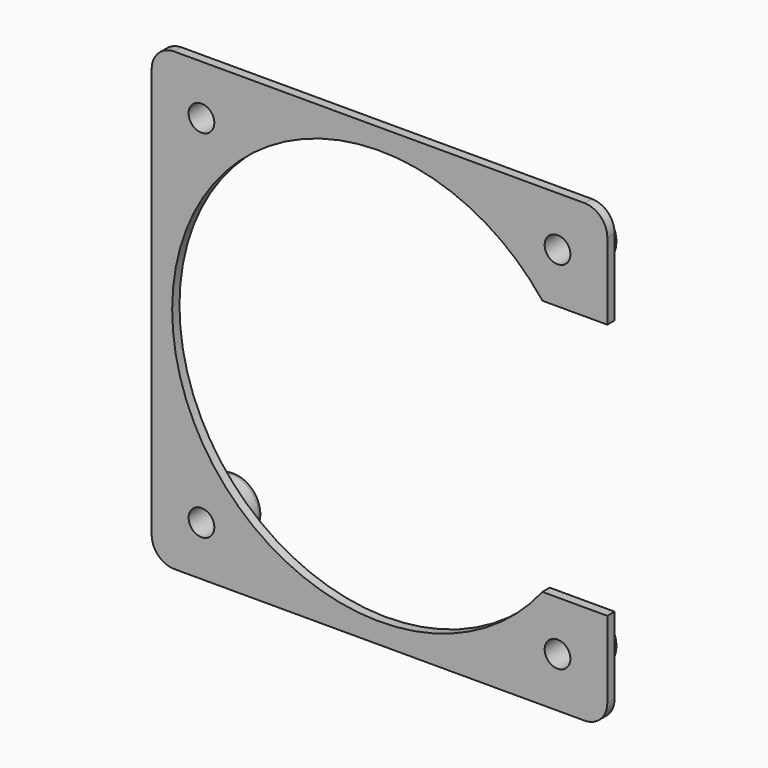
from build123d import *

# Parameters (mm, degrees)
F1_DEPTH = 1.016
F2_R     = 3.175
F3_DEPTH = 3.6322
F5_D     = 2.8702
F6_R     = 0.635


with BuildPart() as f1:
    # F0 (on Front) → F1 (new body)
    with BuildSketch(Plane.XZ):
        with BuildLine():
            ThreePointArc((0, 2.54), (0.7439487758, 0.7439487758), (2.54, 0))
            Line((2.54, 0), (48.26, 0))
            ThreePointArc((48.26, 0), (50.0560512242, 0.7439487758), (50.8, 2.54))
            Line((50.8, 2.54), (50.8, 11.1125))
            Line((50.8, 11.1125), (43.5693241413, 11.1125))
            ThreePointArc((43.5693241413, 11.1125), (2.286, 25.4), (43.5693241413, 39.6875))
            Line((43.5693241413, 39.6875), (50.8, 39.6875))
            Line((50.8, 39.6875), (50.8, 48.26))
            ThreePointArc((50.8, 48.26), (50.0560512242, 50.0560512242), (48.26, 50.8))
            Line((48.26, 50.8), (2.54, 50.8))
            ThreePointArc((2.54, 50.8), (0.7439487758, 50.0560512242), (0, 48.26))
            Line((0, 48.26), (0, 2.54))
        make_face()
    extrude(amount=F1_DEPTH)

    # F2 (on face) → F3 (join)
    with BuildSketch(Plane(origin=(0, 0, 0), x_dir=(-1, 0, 0), z_dir=(0, 1, 0))):
        with Locations((-45.2501, 45.2501)):
            Circle(F2_R)
        with Locations((-5.5499, 45.2501)):
            Circle(F2_R)
        with Locations((-5.5499, 5.5499)):
            Circle(F2_R)
        with Locations((-45.2501, 5.5499)):
            Circle(F2_R)
    extrude(amount=F3_DEPTH)

    # F5 (through all)
    with Locations(Plane(origin=(0, 3.6322, 0), x_dir=(-1, 0, 0), z_dir=(0, 1, 0))):
        with Locations((-45.2501, 45.2501), (-5.5499, 45.2501), (-5.5499, 5.5499), (-45.2501, 5.5499)):
            Hole(F5_D / 2)

    # F6
    f6_edges = [f1.edges().sort_by_distance(p)[0] for p in [
        (48.4251, 3.6322, 45.2501),
        (8.7249, 3.6322, 45.2501),
        (8.7249, 3.6322, 5.5499),
        (48.4251, 3.6322, 5.5499),
    ]]
    fillet(f6_edges, radius=F6_R)


solid = f1.part
